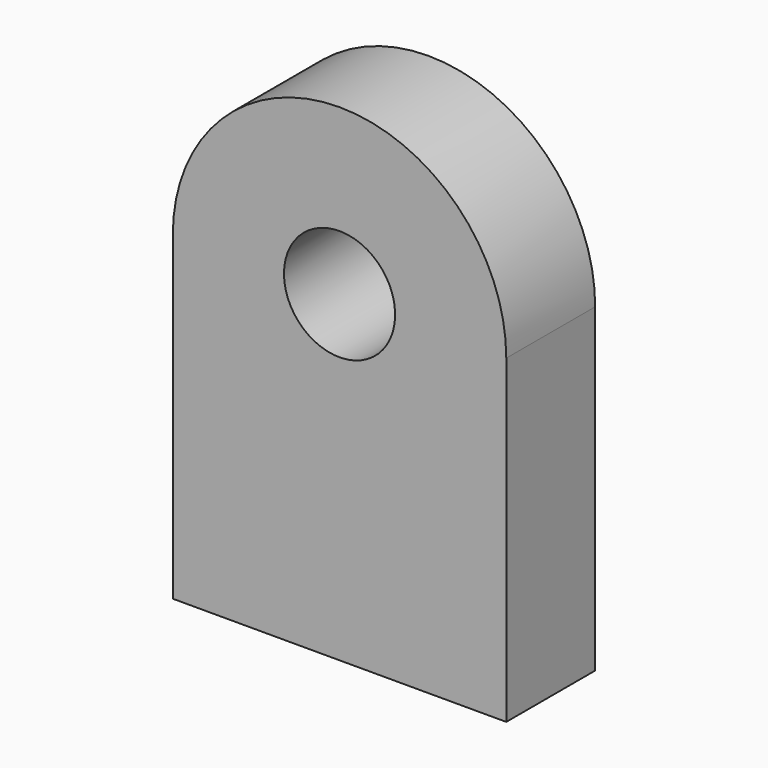
from build123d import *

# Parameters (mm, degrees)
F1_DEPTH = 12.7
F3_D     = 12.7


with BuildPart() as f1:
    # F0 (on Front) → F1 (new body)
    with BuildSketch(Plane.XZ):
        with BuildLine():
            Line((-58.343168, 47.623054), (-58.343168, 11.031965))
            Line((-58.343168, 11.031965), (-20.243168, 11.031965))
            Line((-20.243168, 11.031965), (-20.243168, 47.623054))
            ThreePointArc((-20.243168, 47.623054), (-39.293168, 66.673054), (-58.343168, 47.623054))
        make_face()
    extrude(amount=F1_DEPTH)

    # F3 (through all)
    with Locations(Plane.XZ.offset(12.7)):
        with Locations((-39.293168, 47.861965)):
            Hole(F3_D / 2)


solid = f1.part
